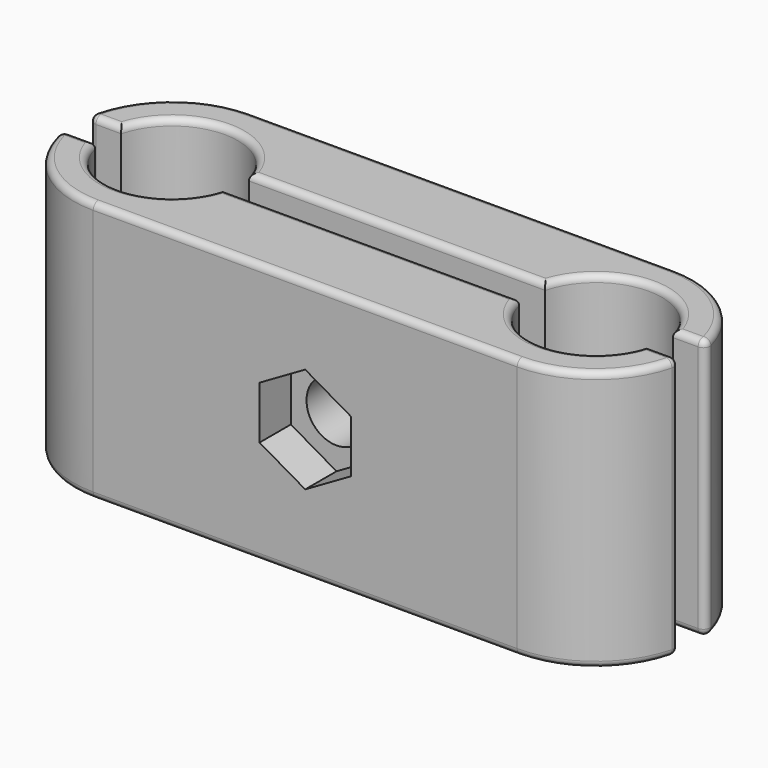
from build123d import *

# Parameters (mm, degrees)
F1_DEPTH = 50.8
F2_R     = 5.842
F3_DEPTH = 25.4
F4_DEPTH = 7.62
F5_R     = 6.096
F6_DEPTH = 25.4
F5_R_2   = 12.2257427485
F7_DEPTH = 6.35
F8_R     = 1.27
F8_2_R   = 1.27


with BuildPart() as f1:
    # F0 (on Top) → F1 (new body)
    with BuildSketch(Plane.XY):
        with BuildLine():
            ThreePointArc((0, 19.1770002437), (12.3868955467, 14.639745799), (18.9123428836, 3.175))
            Line((18.9123428836, 3.175), (63.6376567787, 3.175))
            ThreePointArc((63.6376567787, 3.175), (70.1631042168, 14.6397460352), (82.55, 19.1770005768))
            Line((82.55, 19.1770005768), (0, 19.1770002437))
        make_face()
        with BuildLine():
            Line((12.4278438999, 3.175), (18.9123428836, 3.175))
            ThreePointArc((18.9123428836, 3.175), (12.3868955467, 14.639745799), (0, 19.1770002437))
            ThreePointArc((0, 19.1770002437), (-12.3868955467, 14.639745799), (-18.9123428836, 3.175))
            Line((-18.9123428836, 3.175), (-12.4278438999, 3.175))
            ThreePointArc((-12.4278438999, 3.175), (0, 12.827), (12.4278438999, 3.175))
        make_face()
        with BuildLine():
            ThreePointArc((82.55, 19.1770005768), (70.1631042168, 14.6397460352), (63.6376567787, 3.175))
            Line((63.6376567787, 3.175), (70.1221561001, 3.175))
            ThreePointArc((70.1221561001, 3.175), (82.55, 12.827), (94.9778438999, 3.175))
            Line((94.9778438999, 3.175), (101.4623432213, 3.175))
            ThreePointArc((101.4623432213, 3.175), (94.9368957832, 14.6397460352), (82.55, 19.1770005768))
        make_face()
    extrude(amount=F1_DEPTH)


with BuildPart() as f1b:
    # F0 (on Top) → F1, piece 2 (new body)
    with BuildSketch(Plane.XY):
        with BuildLine():
            Line((63.6376567787, -3.175), (18.9123428836, -3.175))
            ThreePointArc((18.9123428836, -3.175), (12.3868955467, -14.639745799), (0, -19.1770002437))
            Line((0, -19.1770002437), (82.55, -19.1770005768))
            ThreePointArc((82.55, -19.1770005768), (70.1631042168, -14.6397460352), (63.6376567787, -3.175))
        make_face()
        with BuildLine():
            Line((70.1221561001, -3.175), (63.6376567787, -3.175))
            ThreePointArc((63.6376567787, -3.175), (70.1631042168, -14.6397460352), (82.55, -19.1770005768))
            ThreePointArc((82.55, -19.1770005768), (94.9368957832, -14.6397460352), (101.4623432213, -3.175))
            Line((101.4623432213, -3.175), (94.9778438999, -3.175))
            ThreePointArc((94.9778438999, -3.175), (82.55, -12.827), (70.1221561001, -3.175))
        make_face()
        with BuildLine():
            ThreePointArc((12.4278438999, -3.175), (0, -12.827), (-12.4278438999, -3.175))
            Line((-12.4278438999, -3.175), (-18.9123428836, -3.175))
            ThreePointArc((-18.9123428836, -3.175), (-12.3868955467, -14.639745799), (0, -19.1770002437))
            ThreePointArc((0, -19.1770002437), (12.3868955467, -14.639745799), (18.9123428836, -3.175))
            Line((18.9123428836, -3.175), (12.4278438999, -3.175))
        make_face()
    extrude(amount=F1_DEPTH)


with BuildPart() as f3_tool:
    # F2 (on face) → F3 (new body)
    with BuildSketch(Plane(origin=(-7.74e-08, -19.1770002437, 0), x_dir=(1, -4e-09, 0), z_dir=(-4e-09, -1, 0))):
        with Locations((41.2750000387, 25.4)):
            Circle(F2_R)
    extrude(amount=-F3_DEPTH)


with BuildPart() as f1_1:
    add(f1.part)

    # F3: cut by f3_tool
    add(f3_tool.part, mode=Mode.SUBTRACT)

    # F5 (on face) → F6 (cut)
    with BuildSketch(Plane(origin=(-7.74e-08, 19.1770002437, 0), x_dir=(-1, -4e-09, 0), z_dir=(-4e-09, 1, 0))):
        with Locations((-41.275, 25.4)):
            Circle(F5_R)
    extrude(amount=-F6_DEPTH, mode=Mode.SUBTRACT)

    # F5 (on face) → F7 (cut)
    with BuildSketch(Plane(origin=(-7.74e-08, 19.1770002437, 0), x_dir=(-1, -4e-09, 0), z_dir=(-4e-09, 1, 0))):
        with Locations((-41.275, 25.4)):
            Circle(F5_R_2)
        with Locations((-41.275, 25.4)):
            Circle(F5_R, mode=Mode.SUBTRACT)
    extrude(amount=-F7_DEPTH, mode=Mode.SUBTRACT)

    # F8#2
    f8_2_edges = [f1_1.edges().sort_by_distance(p)[0] for p in [
        (41.275, 19.177, 50.8),
        (-12.386896, 14.639746, 50.8),
        (-15.670093, 3.175, 50.8),
        (0, 12.827, 50.8),
        (41.275, 3.175, 50.8),
        (82.55, 12.827, 50.8),
        (98.220094, 3.175, 50.8),
        (94.936896, 14.639746, 50.8),
        (41.275, 19.177, 0),
        (-12.386896, 14.639746, 0),
        (-15.670093, 3.175, 0),
        (0, 12.827, 0),
        (41.275, 3.175, 0),
        (82.55, 12.827, 0),
        (98.220094, 3.175, 0),
        (94.936896, 14.639746, 0),
        (53.500743, 19.177, 25.4),
        (101.462343, 3.175, 25.4),
        (-18.912343, 3.175, 25.4),
    ]]
    fillet(f8_2_edges, radius=F8_2_R)


with BuildPart() as f1b_1:
    add(f1b.part)

    # F3: cut by f3_tool
    add(f3_tool.part, mode=Mode.SUBTRACT)

    # F2 (on face) → F4 (cut)
    with BuildSketch(Plane(origin=(-7.74e-08, -19.1770002437, 0), x_dir=(1, -4e-09, 0), z_dir=(-4e-09, -1, 0))):
        Polygon((41.2750000774, 15.1347122138), (50.165000058, 20.2673561404), (50.1650000193, 30.5326439266), (41.275, 35.6652877862), (32.3850000193, 30.5326438596), (32.385000058, 20.2673560734), align=None)
        with Locations((41.2750000387, 25.4)):
            Circle(F2_R, mode=Mode.SUBTRACT)
    extrude(amount=-F4_DEPTH, mode=Mode.SUBTRACT)

    # F8
    f8_edges = [f1b_1.edges().sort_by_distance(p)[0] for p in [
        (41.275, -19.177, 50.8),
        (94.936896, -14.639746, 50.8),
        (98.220094, -3.175, 50.8),
        (82.55, -12.827, 50.8),
        (41.275, -3.175, 50.8),
        (0, -12.827, 50.8),
        (-15.670093, -3.175, 50.8),
        (-12.386896, -14.639746, 50.8),
        (41.275, -19.177, 0),
        (94.936896, -14.639746, 0),
        (98.220094, -3.175, 0),
        (82.55, -12.827, 0),
        (41.275, -3.175, 0),
        (0, -12.827, 0),
        (-15.670093, -3.175, 0),
        (-12.386896, -14.639746, 0),
        (101.462343, -3.175, 25.4),
        (-18.912343, -3.175, 25.4),
    ]]
    fillet(f8_edges, radius=F8_R)


solid = Compound([f1_1.part, f1b_1.part])
